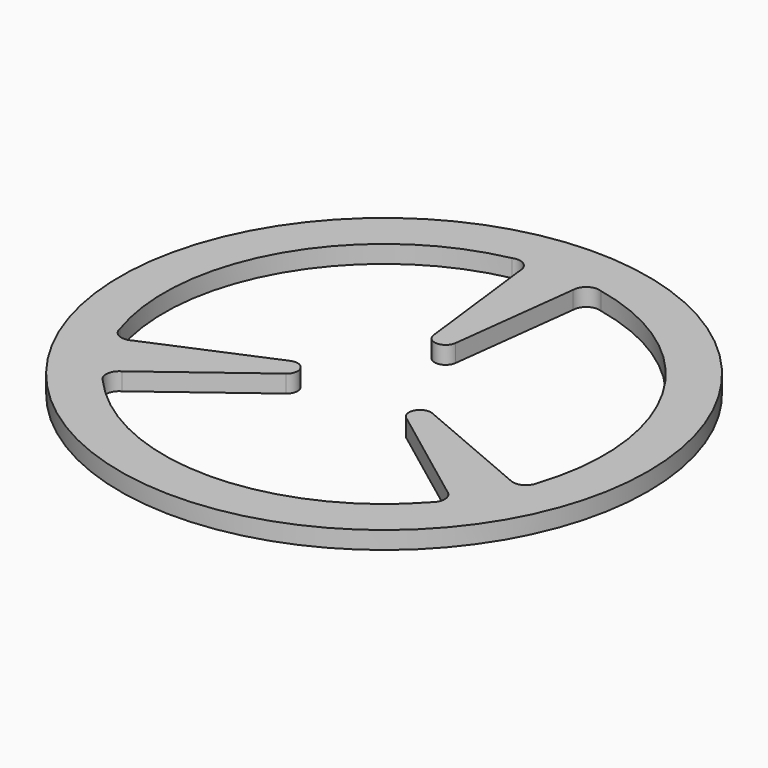
from build123d import *

# Parameters (mm, degrees)
F0_R     = 60
F1_DEPTH = 4


with BuildPart() as f1:
    # F0 (on Top) → F1 (new body)
    with BuildSketch(Plane.XY):
        Circle(F0_R)
        with BuildLine():
            ThreePointArc((6, 46.184288), (7.316863, 48.662894), (10.106957, 48.967841))
            ThreePointArc((10.106957, 48.967841), (43.30127, 25), (47.460872, -15.731039))
            ThreePointArc((47.460872, -15.731039), (47.329687, -16.27085), (47.10122, -16.777219))
            ThreePointArc((47.10122, -16.777219), (45.281593, -18.189946), (42.996767, -17.895992))
            Line((42.996767, -17.895992), (16.13546, -6.450094))
            ThreePointArc((16.13546, -6.450094), (12.990381, -7.5), (13.653675, -10.748671))
            Line((13.653675, -10.748671), (36.996767, -28.288297))
            ThreePointArc((36.996767, -28.288297), (38.393752, -30.120037), (38.080108, -32.402244))
            ThreePointArc((38.080108, -32.402244), (37.755813, -32.853286), (37.353916, -33.236802))
            ThreePointArc((37.353916, -33.236802), (0, -50), (-37.353916, -33.236802))
            ThreePointArc((-37.353916, -33.236802), (-37.755813, -32.853286), (-38.080108, -32.402244))
            ThreePointArc((-38.080108, -32.402244), (-38.393752, -30.120037), (-36.996767, -28.288297))
            Line((-36.996767, -28.288297), (-13.653675, -10.748671))
            ThreePointArc((-13.653675, -10.748671), (-12.990381, -7.5), (-16.13546, -6.450094))
            Line((-16.13546, -6.450094), (-42.996767, -17.895992))
            ThreePointArc((-42.996767, -17.895992), (-45.281593, -18.189946), (-47.10122, -16.777219))
            ThreePointArc((-47.10122, -16.777219), (-47.329687, -16.27085), (-47.460872, -15.731039))
            ThreePointArc((-47.460872, -15.731039), (-43.30127, 25), (-10.106957, 48.967841))
            ThreePointArc((-10.106957, 48.967841), (-7.316863, 48.662894), (-6, 46.184288))
            Line((-6, 46.184288), (-2.481785, 17.198765))
            ThreePointArc((-2.481785, 17.198765), (0, 15), (2.481785, 17.198765))
            Line((2.481785, 17.198765), (6, 46.184288))
        make_face(mode=Mode.SUBTRACT)
    extrude(amount=F1_DEPTH)


solid = f1.part
